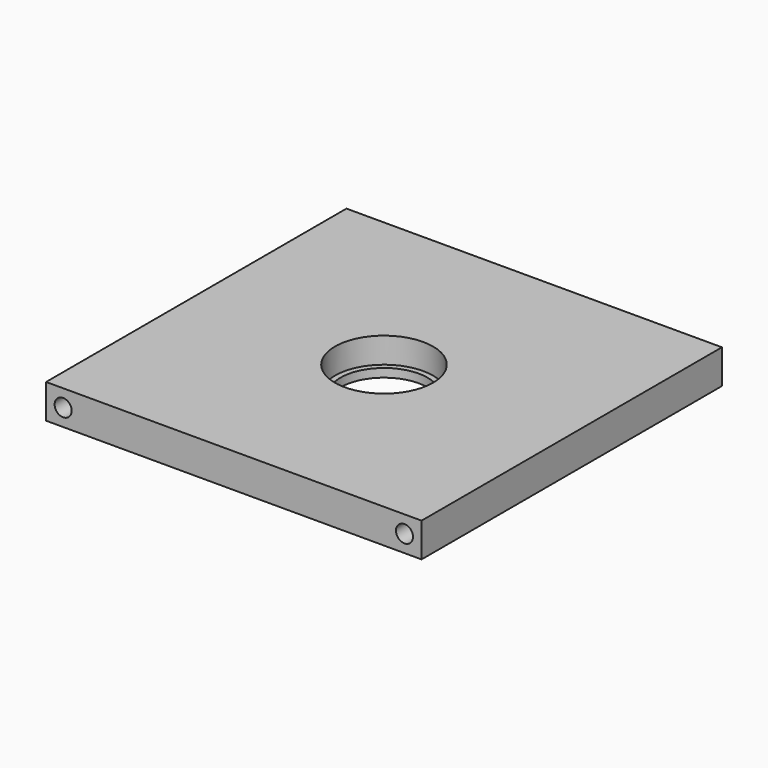
from build123d import *

# Parameters (mm, degrees)
F0_W           = 139.7
F0_H           = 139.7
F1_DEPTH       = 12.7
F2_R           = 18.25625
F2_R_2         = 16.1925
F3_DEPTH       = 9.525
F4_DEPTH       = 25.4
F7_D           = 6.35
F7_DEPTH       = 19.05
F7_TIP         = 1.9077324654
F7_ON_F6_D     = 6.35
F7_ON_F6_DEPTH = 19.05
F7_ON_F6_TIP   = 1.9077324654


with BuildPart() as f1:
    # F0 (on Top) → F1 (new body)
    with BuildSketch(Plane.XY):
        with Locations((7.4876705185, 11.5616054587)):
            Rectangle(F0_W, F0_H)
    extrude(amount=F1_DEPTH)

    # F2 (on face) → F3 (cut)
    with BuildSketch(Plane.XY.offset(12.7)):
        with Locations((7.4876705185, 11.5616054587)):
            Circle(F2_R)
        with Locations((7.4876705185, 11.5616054587)):
            Circle(F2_R_2, mode=Mode.SUBTRACT)
    extrude(amount=-F3_DEPTH, mode=Mode.SUBTRACT)

    # F4 (cut): a face of the model
    f4_faces = [f1.faces().sort_by_distance(p)[0] for p in [
        (7.4876705185, 11.5616054587, 12.7),
    ]]
    extrude(f4_faces, amount=-F4_DEPTH, mode=Mode.SUBTRACT)

    # F7
    with Locations(Plane.XZ.offset(58.2883945413)):
        with Locations((-56.0123294815, 6.35), (70.9876705185, 6.35)):
            Hole(F7_D / 2, depth=F7_DEPTH)
            with Locations((0, 0, -(F7_DEPTH + F7_TIP / 2))):  # 118° drill point
                Cone(0, F7_D / 2, F7_TIP, mode=Mode.SUBTRACT)

    # F7 on F6
    with Locations(Plane(origin=(0, 81.4116054587, 0), x_dir=(-1, 0, 0), z_dir=(0, 1, 0))):
        with Locations((-70.9876705185, 6.35), (56.0123294815, 6.35)):
            Hole(F7_ON_F6_D / 2, depth=F7_ON_F6_DEPTH)
            with Locations((0, 0, -(F7_ON_F6_DEPTH + F7_ON_F6_TIP / 2))):  # 118° drill point
                Cone(0, F7_ON_F6_D / 2, F7_ON_F6_TIP, mode=Mode.SUBTRACT)


solid = f1.part
